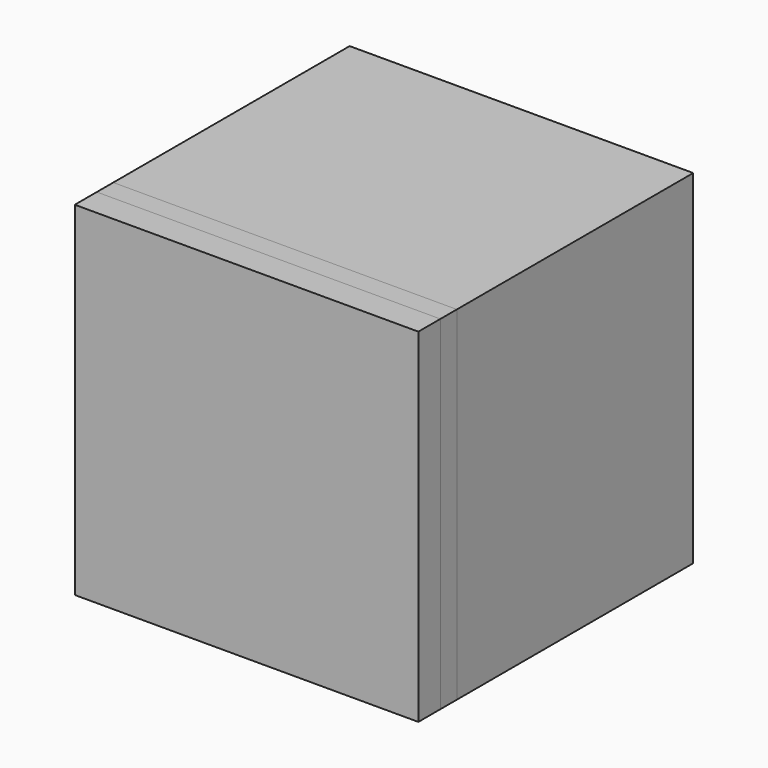
from build123d import *

# Parameters (mm, degrees)
F0_W     = 25
F0_H     = 25
F1_DEPTH = 25
F2_W     = 1.5
F2_H     = 25
F3_DEPTH = 25
F4_DEPTH = 25


with BuildPart() as f1:
    # F0 (on Front) → F1 (new body)
    with BuildSketch(Plane.XZ):
        with Locations((12.5, 12.5)):
            Rectangle(F0_W, F0_H)
    extrude(amount=F1_DEPTH)

    # F2 (on face) → F3 (cut)
    with BuildSketch(Plane.YZ.offset(25)):
        with Locations((-22.25, 12.5)):
            Rectangle(F2_W, F2_H)
    extrude(amount=-F3_DEPTH, mode=Mode.SUBTRACT)


with BuildPart() as f4:
    # F2 (on face) → F4 (new body)
    with BuildSketch(Plane.YZ.offset(25)):
        with Locations((-22.25, 12.5)):
            Rectangle(F2_W, F2_H)
    extrude(amount=-F4_DEPTH)


solid = Compound([f1.part, f4.part])
